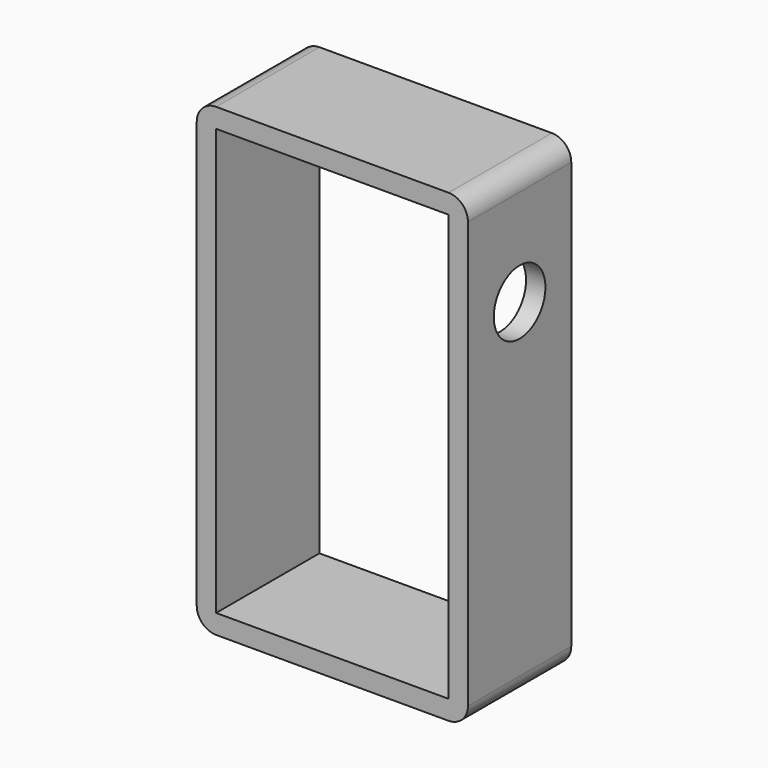
from build123d import *

# Parameters (mm, degrees)
F0_W     = 42
F0_H     = 72
F0_W_2   = 36
F0_H_2   = 66
F1_DEPTH = 10
F2_R     = 3
F3_R     = 3
F5_D     = 10
F5_DEPTH = 3


with BuildPart() as f1:
    # F0 (on Front) → F1 (new body, symmetric)
    with BuildSketch(Plane.XZ):
        Rectangle(F0_W, F0_H)
        Rectangle(F0_W_2, F0_H_2, mode=Mode.SUBTRACT)
    extrude(amount=F1_DEPTH, both=True)

    # F2
    f2_edges = [f1.edges().sort_by_distance(p)[0] for p in [
        (21, 0, 36),
        (-21, 0, 36),
    ]]
    fillet(f2_edges, radius=F2_R)

    # F3
    f3_edges = [f1.edges().sort_by_distance(p)[0] for p in [
        (21, 0, -36),
        (-21, 0, -36),
    ]]
    fillet(f3_edges, radius=F3_R)

    # F5
    with Locations(Plane.YZ.offset(21)):
        with Locations((0, 18)):
            Hole(F5_D / 2, depth=F5_DEPTH)


solid = f1.part
